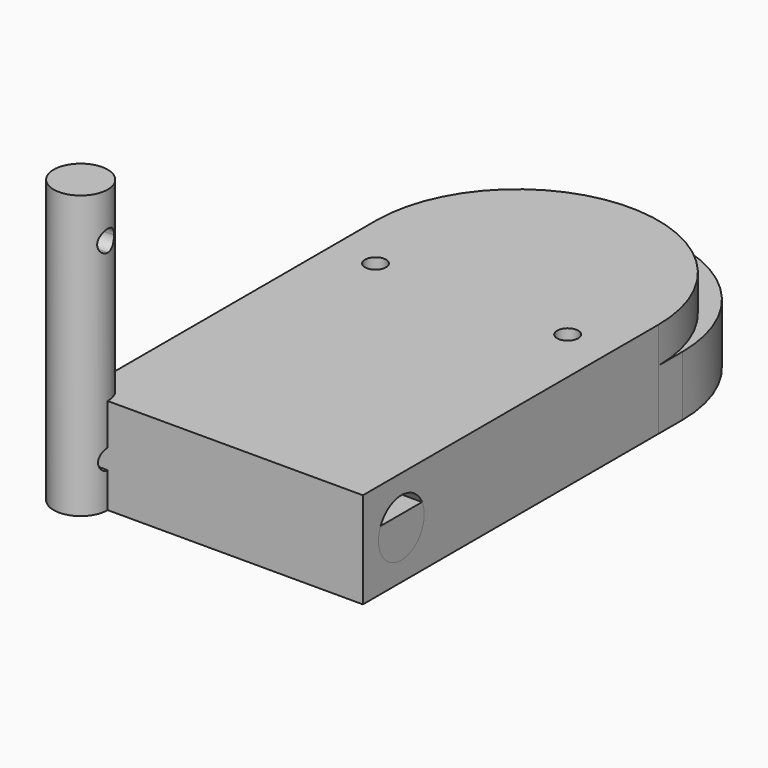
from build123d import *

# Parameters (mm, degrees)
F1_DEPTH  = 10
F2_R      = 1.75
F3_DEPTH  = 25
F7_DEPTH  = 16
F8_R      = 1.75
F9_DEPTH  = 25
F10_R     = 4.5
F11_DEPTH = 47
F13_DEPTH = 12.5
F14_R     = 4.7625
F15_DEPTH = 51.5010001


with BuildPart() as f1:
    # F0 (on Top) → F1 (new body)
    with BuildSketch(Plane.XY):
        with BuildLine():
            Line((0, 66.5), (0, 0))
            Line((0, 0), (47, 0))
            Line((47, 0), (47, 66.5))
            ThreePointArc((47, 66.5), (23.5, 90), (0, 66.5))
        make_face()
    extrude(amount=F1_DEPTH)

    # F2 (on face) → F3 (cut)
    with BuildSketch(Plane(origin=(0, 0, 0), x_dir=(1, 0, 0), z_dir=(0, 0, -1))):
        with Locations((39.5, -57)):
            Circle(F2_R)
        with Locations((7.5, -57)):
            Circle(F2_R)
    extrude(amount=-F3_DEPTH, mode=Mode.SUBTRACT)


with BuildPart() as f4_1:
    # F4: copy of F1
    add(f1.part.moved(Location((0, 0, 33))))


with BuildPart() as f7:
    # F6 (on Top) → F7 (new body)
    with BuildSketch(Plane.XY):
        with BuildLine():
            Line((0, 61.5), (0, 0))
            Line((0, 0), (47, 0))
            Line((47, 0), (47, 61.5))
            ThreePointArc((47, 61.5), (23.5, 85), (0, 61.5))
        make_face()
    extrude(amount=F7_DEPTH)

    # F8 (on face) → F9 (cut)
    with BuildSketch(Plane(origin=(0, 0, 0), x_dir=(1, 0, 0), z_dir=(0, 0, -1))):
        with Locations((7.5, -52)):
            Circle(F8_R)
        with BuildLine():
            ThreePointArc((41.25, -52), (39.5, -50.25), (37.75, -52))
            ThreePointArc((37.75, -52), (39.5, -53.75), (41.25, -52))
        make_face()
    extrude(amount=-F9_DEPTH, mode=Mode.SUBTRACT)

    # F14 (on face) → F15 (cut, through all)
    with BuildSketch(Plane.YZ.offset(47)):
        with Locations((8, 8)):
            Circle(F14_R)
    extrude(amount=-F15_DEPTH, mode=Mode.SUBTRACT)


with BuildPart() as f11:
    # F10 (on Top) → F11 (new body)
    with BuildSketch(Plane.XY):
        Circle(F10_R)
    extrude(amount=F11_DEPTH)

    # F12 (on Right) → F13 (cut, symmetric)
    with BuildSketch(Plane.YZ):
        with BuildLine():
            ThreePointArc((0, 9.1430840102), (-1.6430840102, 7.5), (0, 5.8569159898))
            Line((0, 5.8569159898), (0, 9.1430840102))
        make_face()
        with BuildLine():
            ThreePointArc((1.75, 39.5), (-1.2374368671, 40.7374368671), (0, 37.75))
            ThreePointArc((0, 37.75), (1.2374368671, 38.2625631329), (1.75, 39.5))
        make_face()
        with BuildLine():
            Line((0, 9.1430840102), (0, 5.8569159898))
            ThreePointArc((0, 5.8569159898), (1.1618358457, 6.3381641543), (1.6430840102, 7.5))
            ThreePointArc((1.6430840102, 7.5), (1.1618358457, 8.6618358457), (0, 9.1430840102))
        make_face()
    extrude(amount=F13_DEPTH, both=True, mode=Mode.SUBTRACT)


solid = Compound([f1.part, f7.part, f11.part])
